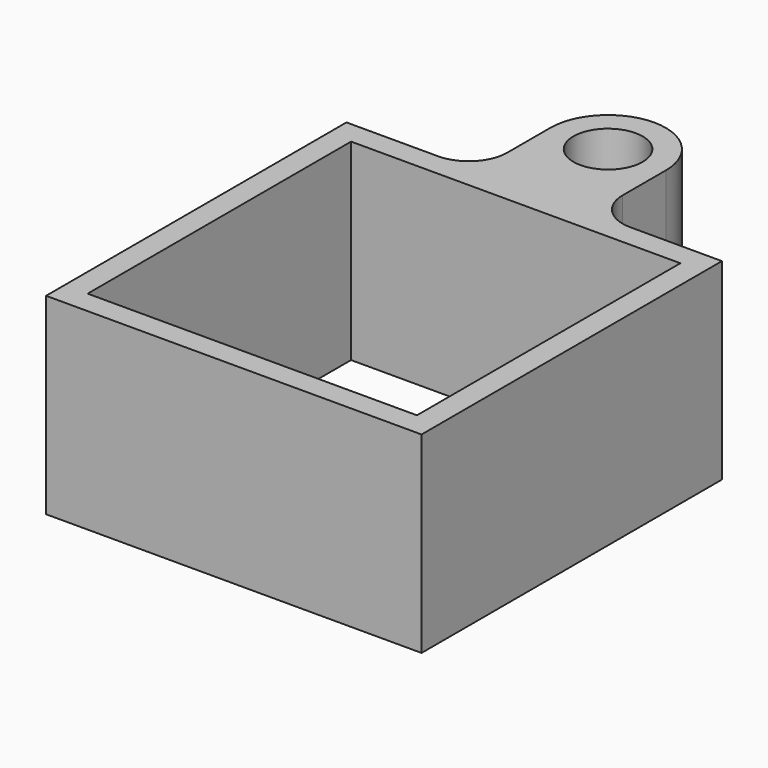
from build123d import *

# Parameters (mm, degrees)
F0_W     = 42.8
F0_H     = 42.8
F0_R     = 4.5
F1_DEPTH = 25
F2_R     = 5


with BuildPart() as f1:
    # F0 (on Top) → F1 (new body)
    with BuildSketch(Plane.XY):
        Polygon((24.4, -24.4), (24.4, 24.4), (7.5, 24.4), (-7.5, 24.4), (-24.4, 24.4), (-24.4, -24.4), align=None)
        Rectangle(F0_W, F0_H, mode=Mode.SUBTRACT)
        with BuildLine():
            Line((-7.5, 24.4), (7.5, 24.4))
            Line((7.5, 24.4), (7.5, 36.4))
            ThreePointArc((7.5, 36.4), (0, 28.9), (-7.5, 36.4))
            Line((-7.5, 36.4), (-7.5, 24.4))
        make_face()
        with BuildLine():
            ThreePointArc((-7.5, 36.4), (0, 28.9), (7.5, 36.4))
            ThreePointArc((7.5, 36.4), (0, 43.9), (-7.5, 36.4))
        make_face()
        with Locations((0, 36.4)):
            Circle(F0_R, mode=Mode.SUBTRACT)
    extrude(amount=F1_DEPTH)

    # F2
    f2_edges = [f1.edges().sort_by_distance(p)[0] for p in [
        (7.5, 24.4, 12.5),
        (-7.5, 24.4, 12.5),
    ]]
    fillet(f2_edges, radius=F2_R)


solid = f1.part
